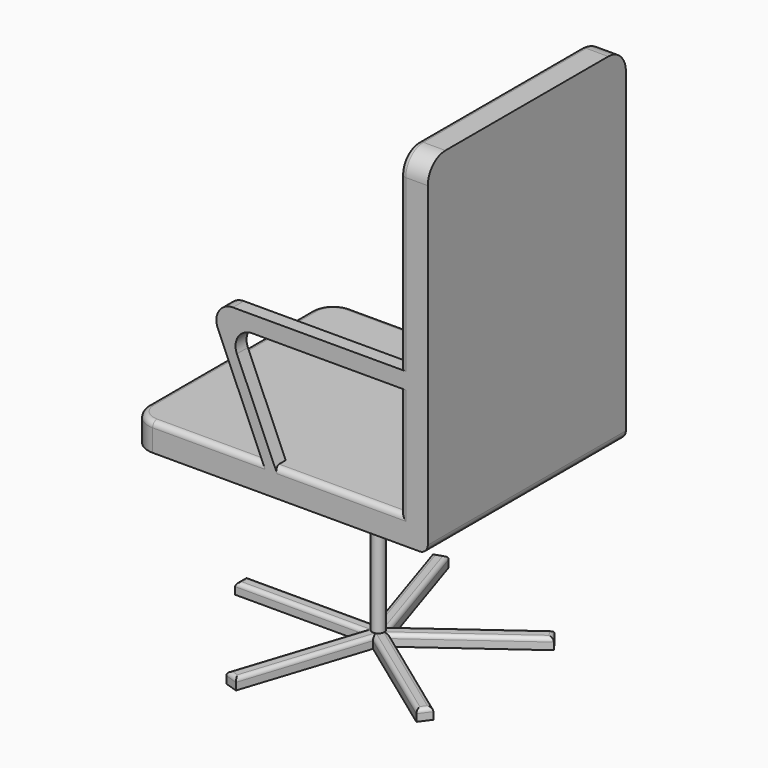
from build123d import *

# Parameters (mm, degrees)
F0_W      = 250
F0_H      = 20
F1_DEPTH  = 12.5
F2_R      = 7
F4_COUNT  = 5
F5_R      = 11
F6_DEPTH  = 300
F7_R      = 11
F8_DEPTH  = 50
F9_W      = 50
F9_H      = 450
F10_DEPTH = 580
F12_DEPTH = 25
F14_R     = 40
F15_R     = 10
F16_R     = 15


with BuildPart() as f1:
    # F0 (on Front) → F1 (new body, symmetric)
    with BuildSketch(Plane.XZ):
        with Locations((-125, 10)):
            Rectangle(F0_W, F0_H)
    extrude(amount=F1_DEPTH, both=True)

    # F2
    f2_edges = [f1.edges().sort_by_distance(p)[0] for p in [
        (-125, -12.5, 20),
        (-250, 0, 20),
        (-125, 12.5, 20),
    ]]
    fillet(f2_edges, radius=F2_R)

    # F4: F1 ×5 about axis
    f4_axis = Axis((0, 0, 61.4663511515), (0, 0, 1))


with BuildPart() as f1_1:
    add(f1.part)
    for i in range(1, F4_COUNT):
        add(f1.part.rotate(f4_axis, i * 360 / F4_COUNT))

    # F5 (on face) → F6 (join)
    with BuildSketch(Plane.XY.offset(20)):
        Circle(F5_R)
    extrude(amount=F6_DEPTH)

    # F7 (on face) → F8 (join)
    with BuildSketch(Plane.XY.offset(320)):
        with BuildLine():
            Line((270, -225), (270, 225))
            Line((270, 225), (-230, 225))
            ThreePointArc((-230, 225), (-258.2842712475, 213.2842712475), (-270, 185))
            Line((-270, 185), (-270, -185))
            ThreePointArc((-270, -185), (-258.2842712475, -213.2842712475), (-230, -225))
            Line((-230, -225), (270, -225))
        make_face()
        Circle(F7_R, mode=Mode.SUBTRACT)
        Circle(F7_R)
    extrude(amount=F8_DEPTH)

    # F9 (on face) → F10 (join)
    with BuildSketch(Plane.XY.offset(370)):
        with Locations((245, 0)):
            Rectangle(F9_W, F9_H)
    extrude(amount=F10_DEPTH)

    # F11 (on face) → F12 (join)
    with BuildSketch(Plane.XZ.offset(225)):
        with BuildLine():
            Line((220, 570), (220, 600))
            Line((220, 600), (-84.2436446853, 600))
            ThreePointArc((-84.2436446853, 600), (-109.3320234718, 586.4491109141), (-111.7557463729, 558.0382166576))
            Line((-111.7557463729, 558.0382166576), (-30, 370))
            Line((-30, 370), (-8.1914152974, 370))
            Line((-8.1914152974, 370), (-76.9036834094, 528.0382166576))
            ThreePointArc((-76.9036834094, 528.0382166576), (-74.4799605083, 556.4491109141), (-49.3915817218, 570))
            Line((-49.3915817218, 570), (220, 570))
        make_face()
    extrude(amount=-F12_DEPTH)

    # F13: F1 across plane


with BuildPart() as f1_2:
    add(f1_1.part)
    add(f1_1.part.mirror(Plane.XZ))

    # F14
    f14_edges = [f1_2.edges().sort_by_distance(p)[0] for p in [
        (245, -225, 950),
        (245, 225, 950),
    ]]
    fillet(f14_edges, radius=F14_R)

    # F15
    f15_edges = [f1_2.edges().sort_by_distance(p)[0] for p in [
        (220, 0, 950),
        (220, -213.284271, 938.284271),
        (220, -225, 755),
        (220, 225, 755),
        (220, 213.284271, 938.284271),
        (220, 225, 470),
        (220, -225, 470),
        (105.904292, -225, 370),
        (-130, -225, 370),
        (105.904292, 225, 370),
    ]]
    fillet(f15_edges, radius=F15_R)

    # F16
    f16_edges = [f1_2.edges().sort_by_distance(p)[0] for p in [
        (270, 0, 320),
    ]]
    fillet(f16_edges, radius=F16_R)


solid = f1_2.part
